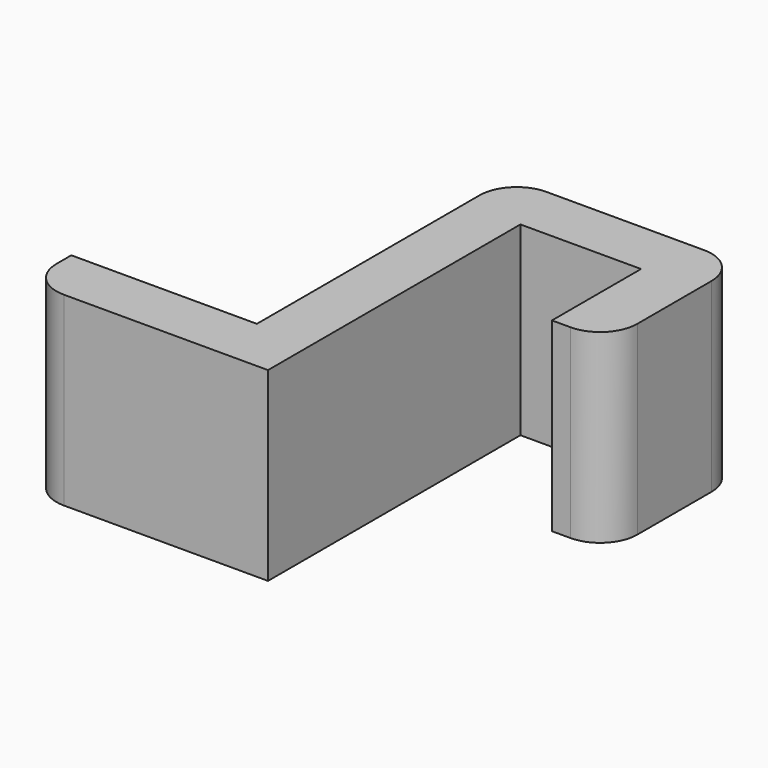
from build123d import *

# Parameters (mm, degrees)
F0_W     = 10
F0_H     = 3
F0_W_2   = 6.5
F1_DEPTH = 10
F2_R     = 2


with BuildPart() as f1:
    # F0 (on Top) → F1 (new body)
    with BuildSketch(Plane.XY):
        with Locations((-11.25, -17)):
            Rectangle(F0_W, F0_H)
        Polygon((-3.25, -18.5), (-3.25, -1.5), (-3.25, 1.5), (-6.25, 1.5), (-6.25, -15.5), (-6.25, -18.5), align=None)
        Rectangle(F0_W_2, F0_H)
        Polygon((3.25, 1.5), (3.25, -1.5), (3.25, -7.5), (6.25, -7.5), (6.25, 1.5), align=None)
    extrude(amount=F1_DEPTH)

    # F2
    f2_edges = [f1.edges().sort_by_distance(p)[0] for p in [
        (-6.25, 1.5, 5),
        (6.25, 1.5, 5),
        (6.25, -7.5, 5),
        (-16.25, -18.5, 5),
    ]]
    fillet(f2_edges, radius=F2_R)


solid = f1.part
